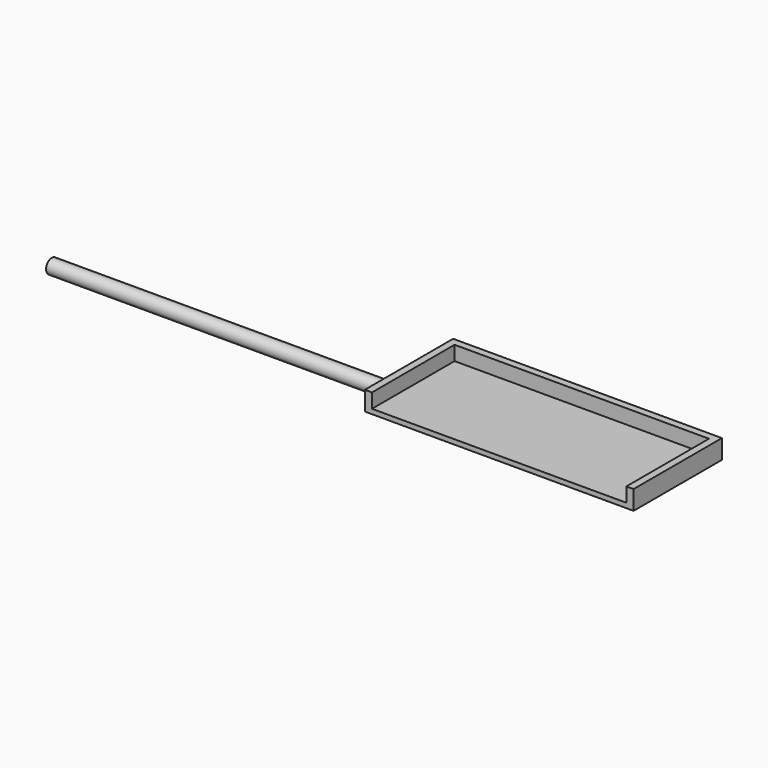
from build123d import *

# Parameters (mm, degrees)
SKETCH007_W     = 56
SKETCH007_H     = 23
PAD004_DEPTH    = 4
SKETCH008_W     = 53
SKETCH008_H     = 25.379599
POCKET003_DEPTH = 3
SKETCH009_R     = 1.5
PAD005_DEPTH    = 70


with BuildPart() as part:
    # Sketch007 → Pad004 (new body)
    with BuildSketch(Plane.XY):
        Rectangle(SKETCH007_W, SKETCH007_H)
    extrude(amount=PAD004_DEPTH)

    # Sketch008 (on Face6 of Pad004) → Pocket003 (cut)
    with BuildSketch(Plane.XY.offset(4)):
        with Locations((0, -2.689799)):
            Rectangle(SKETCH008_W, SKETCH008_H)
    extrude(amount=-POCKET003_DEPTH, mode=Mode.SUBTRACT)

    # Sketch009 (on Face2 of Pocket003) → Pad005 (join)
    with BuildSketch(Plane(origin=(-28, 0, 0), x_dir=(0, -1, 0), z_dir=(-1, 0, 0))):
        with Locations((5.5, 1.5)):
            Circle(SKETCH009_R)
    extrude(amount=PAD005_DEPTH)


with BuildPart() as part_1:
    # Body002 placement: moved
    add(part.part.moved(Location((0, -6.75, 0))))


solid = part_1.part
